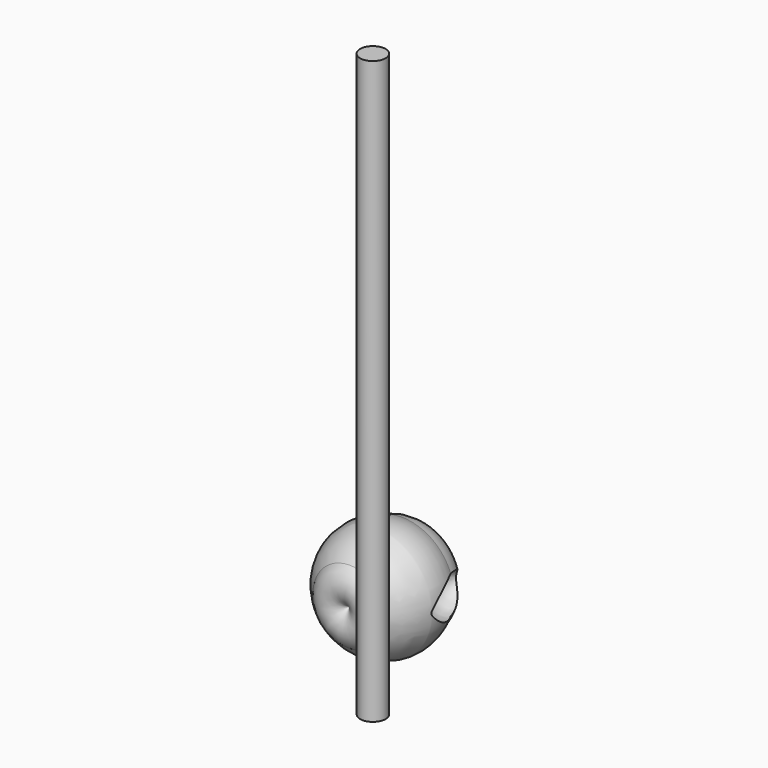
from build123d import *

# Parameters (mm, degrees)
F3_DEPTH = 0.254
F6_R     = 5.5426956175
F7_DEPTH = 254


with BuildPart() as f1:
    # F0 (on Top) → F1 (revolve)
    with BuildSketch(Plane.XY):
        with BuildLine():
            Line((0, 41.0717986524), (0, 0))
            ThreePointArc((0, 0), (8.0010006204, -4.583828836), (16.0020012408, 0))
            ThreePointArc((16.0020012408, 0), (24.7702942279, 12.931834663), (22.9361988604, 28.4480005503))
            ThreePointArc((22.9361988604, 28.4480005503), (18.7117048689, 36.4600633786), (10.9161036724, 41.0717986524))
            ThreePointArc((10.9161036724, 41.0717986524), (7.2970227011, 43.2459425943), (3.1074734399, 43.7677911778))
            ThreePointArc((3.1074734399, 43.7677911778), (1.2807123225, 42.7344901731), (0, 41.0717986524))
        make_face()
    revolve(axis=Axis((0, 20.5358993262, 0), (0, 1, 0)))

    # F2 (on Top) → F3 (join, symmetric)
    with BuildSketch(Plane.XY):
        with BuildLine():
            add(Edge.make_bspline(
                [(0, 41.4274036884), (-1.4847024276, 41.0325029813), (-5.8599517357, 45.7243622873), (-6.9604233885, 50.3987380255), (-3.9207861061, 54.0496813909), (0.6218069095, 52.1813827191), (2.6119782747, 47.5871539427), (1.4076616275, 41.8018131066), (0, 41.4274036884)],
                knots=[0, 0, 0, 0, 0.1926600958, 0.3578048919, 0.5000443393, 0.6477844559, 0.8173369835, 1, 1, 1, 1], degree=3))
        make_face()
    extrude(amount=F3_DEPTH, both=True)

    # F4 (on Top) → F5 (revolve, cut)
    with BuildSketch(Plane.XY):
        with BuildLine():
            ThreePointArc((16.3576006889, 41.2495993078), (12.9922778404, 24.7263095145), (25.4254024476, 13.3350007236))
            Line((25.4254024476, 13.3350007236), (16.3576006889, 41.2495993078))
        make_face()
    revolve(axis=Axis((20.8915015683, 27.2923000157, 0), (-0.3089491601, 0.9510785543, 0)), mode=Mode.SUBTRACT)


with BuildPart() as f7:
    # F6 (on Top) → F7 (new body)
    with BuildSketch(Plane.XY):
        with Locations((55.8697991073, -57.1089871228)):
            Circle(F6_R)
    extrude(amount=F7_DEPTH)


solid = Compound([f1.part, f7.part])
